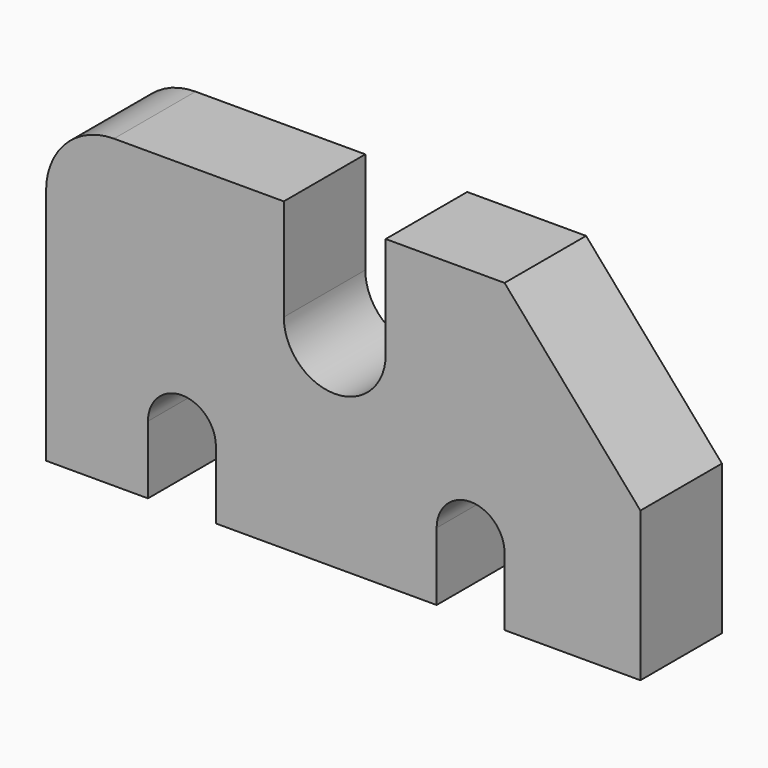
from build123d import *

# Parameters (mm, degrees)
F1_DEPTH = 30


with BuildPart() as f1:
    # F0 (on Front) → F1 (new body)
    with BuildSketch(Plane.XZ):
        with BuildLine():
            Line((0, 70), (0, 0))
            Line((0, 0), (30, 0))
            Line((30, 0), (30, 20))
            ThreePointArc((30, 20), (40, 30), (50, 20))
            Line((50, 20), (50, 0))
            Line((50, 0), (115, 0))
            Line((115, 0), (115, 20))
            ThreePointArc((115, 20), (125, 30), (135, 20))
            Line((135, 20), (135, 0))
            Line((135, 0), (175, 0))
            Line((175, 0), (175, 44))
            Line((175, 44), (135, 90))
            Line((135, 90), (100, 90))
            Line((100, 90), (100, 60))
            ThreePointArc((100, 60), (85, 45), (70, 60))
            Line((70, 60), (70, 90))
            Line((70, 90), (20, 90))
            ThreePointArc((20, 90), (5.857864, 84.142136), (0, 70))
        make_face()
    extrude(amount=F1_DEPTH)


solid = f1.part
